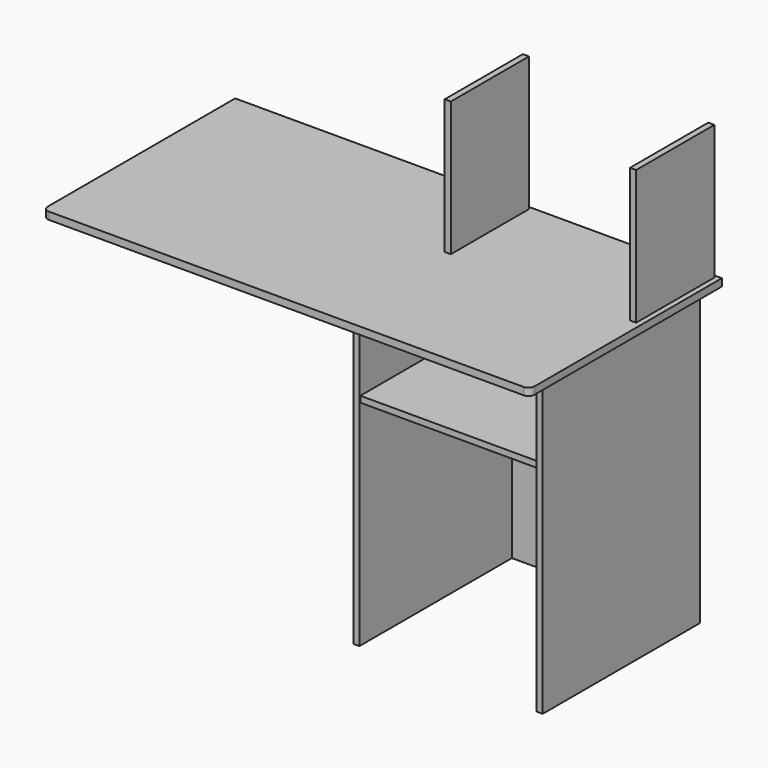
from build123d import *

# Parameters (mm, degrees)
F0_W      = 435
F0_H      = 465
F1_DEPTH  = 15
F3_DEPTH  = 480
F4_DEPTH  = 3
F5_W      = 15
F5_H      = 720
F6_DEPTH  = 483
F8_DEPTH  = 5
F9_R      = 25
F10_DEPTH = 5
F12_DEPTH = 18
F13_W     = 15
F13_H     = 240
F14_DEPTH = 330
F15_W     = 15
F15_H     = 240
F16_DEPTH = 330


with BuildPart() as f1:
    # F0 (on Top) → F1 (new body)
    with BuildSketch(Plane.XY):
        with Locations((173.112164, 216.248717)):
            Rectangle(F0_W, F0_H)
    extrude(amount=F1_DEPTH)

    # F2 (on face) → F3 (join)
    with BuildSketch(Plane.XZ.offset(16.251283)):
        Polygon((-59.387836, 195), (-59.387836, 0), (-59.387836, -525), (-44.387836, -525), (-44.387836, 195), align=None)
    extrude(amount=-F3_DEPTH)

    # F2 (on face) → F4 (join)
    with BuildSketch(Plane.XZ.offset(16.251283)):
        Polygon((-59.387836, 195), (-59.387836, 0), (-59.387836, -525), (-44.387836, -525), (-44.387836, 195), align=None)
    extrude(amount=F4_DEPTH)

    # F5 (on face) → F6 (join)
    with BuildSketch(Plane.XZ.offset(19.251283)):
        with Locations((398.112164, -165)):
            Rectangle(F5_W, F5_H)
    extrude(amount=-F6_DEPTH)

    # F7 (on face) → F8 (join)
    with BuildSketch(Plane(origin=(0, 448.748717, 0), x_dir=(-1, 0, 0), z_dir=(0, 1, 0))):
        Polygon((-390.612164, 195), (-390.612164, 15), (-390.612164, -525), (44.387836, -525), (44.387836, 195), align=None)
    extrude(amount=F8_DEPTH)

    # F9 (on face) → F10 (cut)
    with BuildSketch(Plane(origin=(0, 453.748717, 0), x_dir=(-1, 0, 0), z_dir=(0, 1, 0))):
        with Locations((-173.112164, 100)):
            Circle(F9_R)
    extrude(amount=-F10_DEPTH, mode=Mode.SUBTRACT)

    # F11 (on face) → F12 (join)
    with BuildSketch(Plane.XY.offset(195)):
        with BuildLine():
            Line((-750.387836, -89.251283), (414.612164, -89.251283))
            ThreePointArc((414.612164, -89.251283), (425.218766, -84.857884), (429.612164, -74.251283))
            Line((429.612164, -74.251283), (429.612164, 500.748717))
            Line((429.612164, 500.748717), (-765.387836, 500.748717))
            Line((-765.387836, 500.748717), (-765.387836, -74.251283))
            ThreePointArc((-765.387836, -74.251283), (-760.994438, -84.857884), (-750.387836, -89.251283))
        make_face()
    extrude(amount=F12_DEPTH)

    # F13 (on face) → F14 (join)
    with BuildSketch(Plane.XY.offset(213)):
        with Locations((409.112164, 373.748717)):
            Rectangle(F13_W, F13_H)
    extrude(amount=F14_DEPTH)

    # F15 (on face) → F16 (join)
    with BuildSketch(Plane.XY.offset(213)):
        with Locations((-45.887836, 373.748717)):
            Rectangle(F15_W, F15_H)
    extrude(amount=F16_DEPTH)


solid = f1.part
